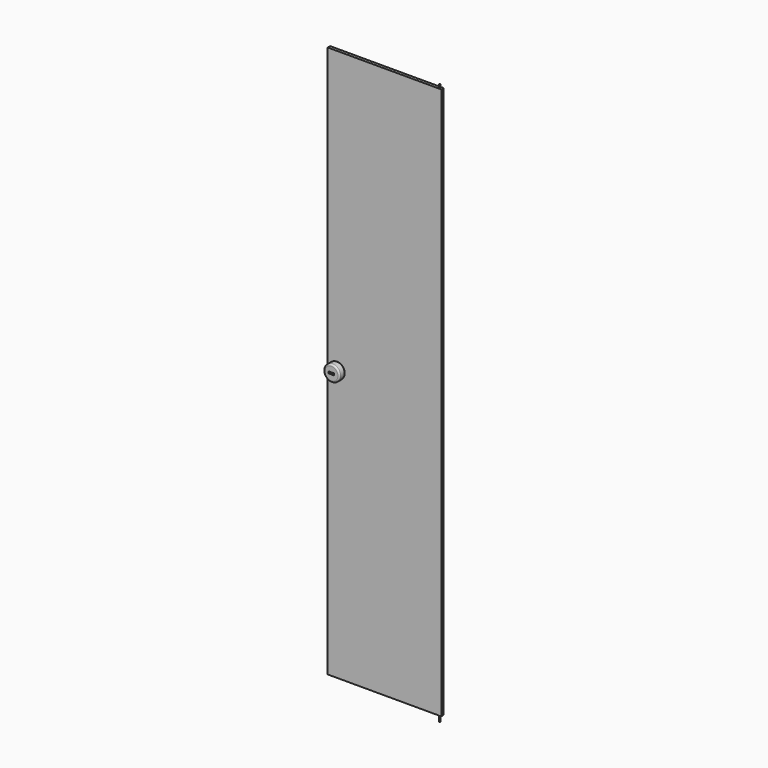
from build123d import *

# Parameters (mm, degrees)
F0_W          = 375.5
F0_H          = 10
F1_DEPTH      = 1825.5
F2_T          = -2.5
F3_R          = 2
F4_DEPTH      = 20
F4_DEPTH_BACK = 1835
F5_R          = 12.88095
F6_DEPTH      = 5
F7_R          = 26.336988
F8_DEPTH      = 25
F9_R          = 5
F10_W         = 17.191563
F10_H         = 6.224573
F11_DEPTH     = 5


with BuildPart() as f1:
    # F0 (on Top) → F1 (new body)
    with BuildSketch(Plane.XY):
        with Locations((187.75, 5)):
            Rectangle(F0_W, F0_H)
    extrude(amount=F1_DEPTH)

    # F2
    f2_openings = [f1.faces().sort_by_distance(p)[0] for p in [
        (187.75, 10, 912.75),
    ]]
    offset(amount=F2_T, openings=f2_openings)

    # F3 (on face) → F4 (join, two sides)
    with BuildSketch(Plane(origin=(0, 0, 0), x_dir=(1, 0, 0), z_dir=(0, 0, -1))) as f4_sk:
        with Locations((366.5, -5)):
            Circle(F3_R)
    extrude(amount=F4_DEPTH)
    extrude(f4_sk.sketch, amount=-F4_DEPTH_BACK)

    # F5 (on face) → F6 (join)
    with BuildSketch(Plane.XZ):
        with Locations((36.467917, 900.125802)):
            Circle(F5_R)
    extrude(amount=F6_DEPTH)

    # F7 (on face) → F8 (join)
    with BuildSketch(Plane.XZ.offset(5)):
        with Locations((36.467917, 900.125802)):
            Circle(F7_R)
    extrude(amount=F8_DEPTH)

    # F9
    f9_edges = [f1.edges().sort_by_distance(p)[0] for p in [
        (10.130929, -30, 900.125802),
        (10.130929, -5, 900.125802),
    ]]
    fillet(f9_edges, radius=F9_R)

    # F10 (on face) → F11 (cut)
    with BuildSketch(Plane.XZ.offset(30)):
        with Locations((35.949202, 900.496275)):
            Rectangle(F10_W, F10_H)
    extrude(amount=-F11_DEPTH, mode=Mode.SUBTRACT)


solid = f1.part
